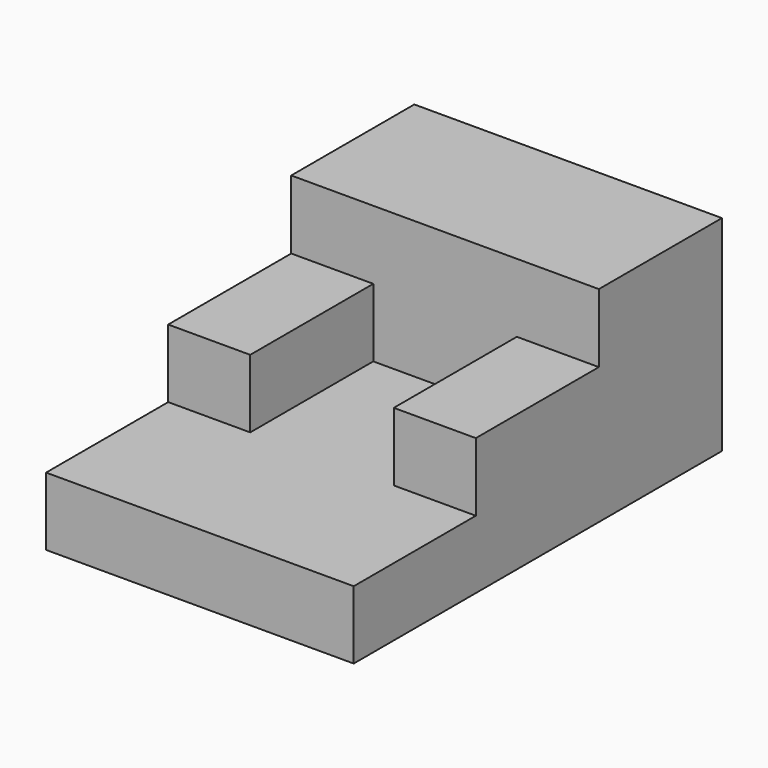
from build123d import *

# Parameters (mm, degrees)
F0_W     = 38.1
F0_H     = 19.05
F1_DEPTH = 25.4
F2_W     = 38.1
F2_H     = 38.1
F3_DEPTH = 8.4328
F4_W     = 10.16
F4_H     = 19.05
F5_DEPTH = 8.4582
F6_DEPTH = 8.46328


with BuildPart() as f1:
    # F0 (on Top) → F1 (new body)
    with BuildSketch(Plane.XY):
        Rectangle(F0_W, F0_H)
    extrude(amount=F1_DEPTH)

    # F2 (on Top) → F3 (join)
    with BuildSketch(Plane.XY):
        with Locations((0, -28.427749)):
            Rectangle(F2_W, F2_H)
    extrude(amount=F3_DEPTH)

    # F4 (on face) → F5 (join)
    with BuildSketch(Plane.XY.offset(8.4328)):
        with Locations((-13.97, -19.05)):
            Rectangle(F4_W, F4_H)
    extrude(amount=F5_DEPTH)

    # F4 (on face) → F6 (join)
    with BuildSketch(Plane.XY.offset(8.4328)):
        with Locations((13.97, -19.05)):
            Rectangle(F4_W, F4_H)
    extrude(amount=F6_DEPTH)


solid = f1.part
